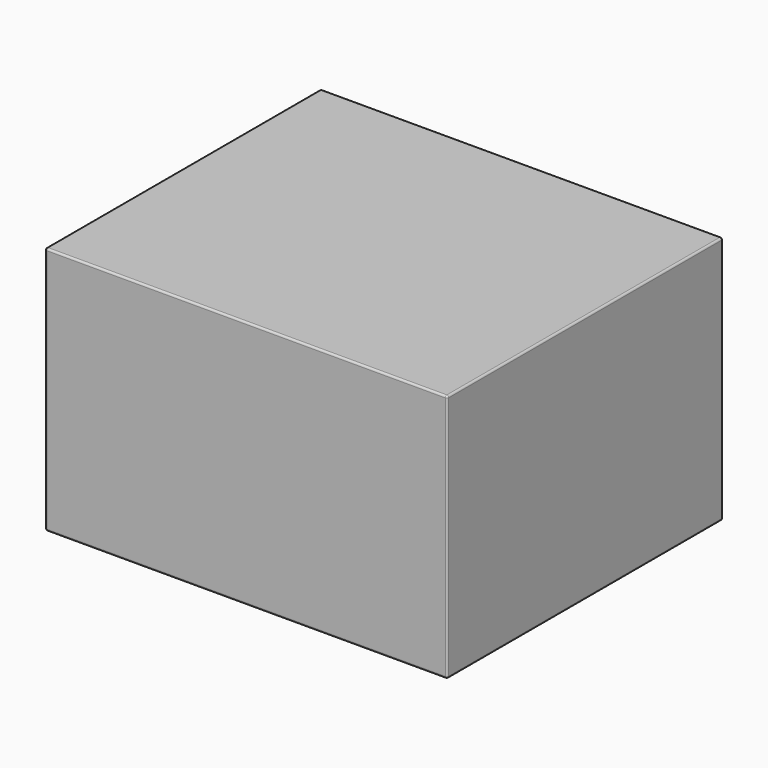
from build123d import *

# Parameters (mm, degrees)
SKETCH_W  = 210
SKETCH_H  = 180
PAD_DEPTH = 130
FILLET_R  = 1


with BuildPart() as part:
    # Sketch → Pad (new body)
    with BuildSketch(Plane.XY):
        with Locations((105, -90)):
            Rectangle(SKETCH_W, SKETCH_H)
    extrude(amount=PAD_DEPTH)

    # Fillet
    fillet_edges = [part.edges().sort_by_distance(p)[0] for p in [
        (0, 0, 65),
        (210, 0, 65),
        (105, 0, 0),
        (105, 0, 130),
        (210, -180, 65),
        (210, -90, 0),
        (210, -90, 130),
        (0, -180, 65),
        (105, -180, 0),
        (105, -180, 130),
        (0, -90, 0),
        (0, -90, 130),
    ]]
    fillet(fillet_edges, radius=FILLET_R)


solid = part.part
